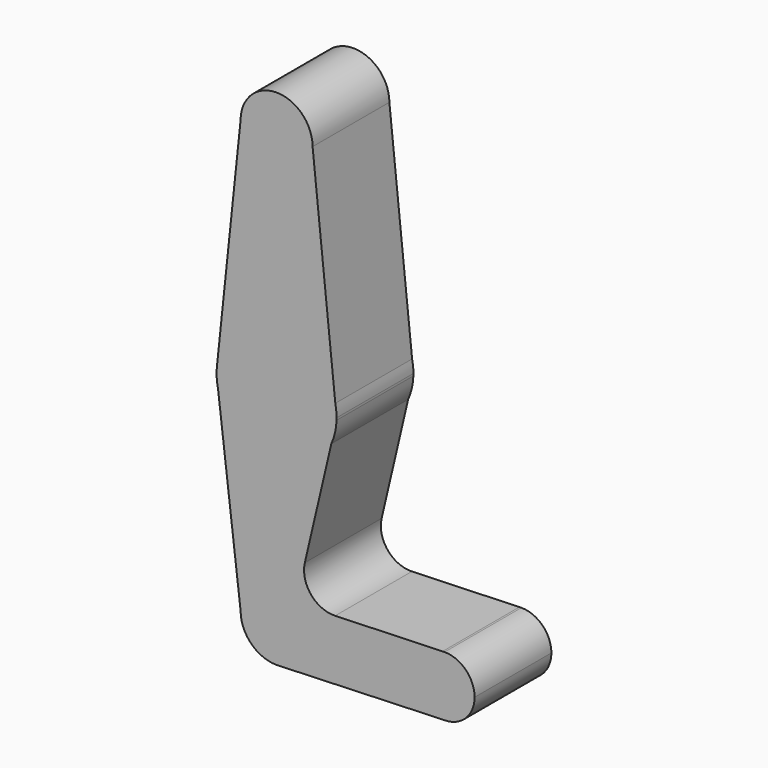
from build123d import *

# Parameters (mm, degrees)
F1_DEPTH = 25.4


with BuildPart() as f1:
    # F0 (on Front) → F1 (new body)
    with BuildSketch(Plane.XZ):
        with BuildLine():
            ThreePointArc((-14.7900995298, 23.9714898933), (-20.6470897327, 17.1486192201), (-29.2709236007, 14.6019767489))
            Line((-29.2709236007, 14.6019767489), (-29.2709236007, -13.2101878722))
            ThreePointArc((-29.2709236007, -13.2101878722), (-22.5357315099, -15.9999957814), (-19.7459236007, -22.7351878722))
            Line((-19.7459236007, -22.7351878722), (7.2415763993, -22.7351878722))
            ThreePointArc((7.2415763993, -22.7351878722), (9.3813621396, -17.3138950731), (14.6470354515, -14.8155389734))
            Line((14.6470354515, -14.8155389734), (-13.7879362186, -15.7695925283))
            ThreePointArc((-13.7879362186, -15.7695925283), (-20.1992020029, -12.868535521), (-21.7962346911, -6.0150730888))
            Line((-21.7962346911, -6.0150730888), (-14.7900995298, 23.9714898933))
        make_face()
        with BuildLine():
            ThreePointArc((14.6470354515, -14.8155389734), (9.3813621396, -17.3138950731), (7.2415763993, -22.7351878722))
            ThreePointArc((7.2415763993, -22.7351878722), (9.5664163236, -28.3478479478), (15.1790763993, -30.6726878722))
            ThreePointArc((15.1790763993, -30.6726878722), (20.791736475, -28.3478479478), (23.1165763993, -22.7351878722))
            ThreePointArc((23.1165763993, -22.7351878722), (20.791736475, -17.1225277965), (15.1790763993, -14.7976878722))
            Line((15.1790763993, -14.7976878722), (14.6470354515, -14.8155389734))
        make_face()
        with BuildLine():
            ThreePointArc((18.3540763993, -22.7351878722), (15.1790763993, -25.9101878722), (12.0040763993, -22.7351878722))
            ThreePointArc((12.0040763993, -22.7351878722), (15.1790763993, -19.5601878722), (18.3540763993, -22.7351878722))
        make_face(mode=Mode.SUBTRACT)
        with BuildLine():
            ThreePointArc((-29.2709236007, -13.2101878722), (-36.0061156915, -15.9999957814), (-38.7959236007, -22.7351878722))
            ThreePointArc((-38.7959236007, -22.7351878722), (-36.0061156915, -29.470379963), (-29.2709236007, -32.2601878722))
            Line((-29.2709236007, -32.2601878722), (-28.5914331548, -32.2359203562))
            ThreePointArc((-28.5914331548, -32.2359203562), (-22.2996334942, -29.2256993506), (-19.7459236007, -22.7351878722))
            Line((-19.7459236007, -22.7351878722), (-26.0959236007, -22.7351878722))
            ThreePointArc((-26.0959236007, -22.7351878722), (-31.515987631, -24.9802519024), (-29.2709236007, -19.5601878722))
            Line((-29.2709236007, -19.5601878722), (-29.2709236007, -13.2101878722))
        make_face()
        with BuildLine():
            ThreePointArc((-29.2709236007, 46.3519767489), (-39.8917173845, 42.2758904448), (-45.0584926384, 32.1407943115))
            ThreePointArc((-45.0584926384, 32.1407943115), (-45.1322391325, 31.135987068), (-45.1420989412, 30.1285254428))
            Line((-45.1420989412, 30.1285254428), (-44.7736165017, 27.0590624994))
            ThreePointArc((-44.7736165017, 27.0590624994), (-39.2146712918, 18.1021027352), (-29.2709236007, 14.6019767489))
            Line((-29.2709236007, 14.6019767489), (-29.2709236007, 27.3019767489))
            ThreePointArc((-29.2709236007, 27.3019767489), (-32.4459236007, 30.4769767489), (-29.2709236007, 33.6519767489))
            Line((-29.2709236007, 33.6519767489), (-29.2709236007, 46.3519767489))
        make_face()
        with BuildLine():
            ThreePointArc((-19.7459236007, 91.5648121278), (-22.5357315099, 84.829620037), (-29.2709236007, 82.0398121278))
            Line((-29.2709236007, 82.0398121278), (-29.2709236007, 70.1771767489))
            ThreePointArc((-29.2709236007, 70.1771767489), (-28.1483915856, 69.712208764), (-27.6834236007, 68.5896767489))
            ThreePointArc((-27.6834236007, 68.5896767489), (-28.1483915856, 67.4671447338), (-29.2709236007, 67.0021767489))
            Line((-29.2709236007, 67.0021767489), (-29.2709236007, 46.3519767489))
            ThreePointArc((-29.2709236007, 46.3519767489), (-19.2663667242, 42.8027410946), (-13.7353254347, 33.7420670425))
            Line((-13.7353254347, 33.7420670425), (-19.7459236007, 91.5648121278))
        make_face()
        with BuildLine():
            ThreePointArc((-29.2709236007, 14.6019767489), (-39.2146712918, 18.1021027352), (-44.7736165017, 27.0590624994))
            Line((-44.7736165017, 27.0590624994), (-38.7959236007, -22.7351878722))
            ThreePointArc((-38.7959236007, -22.7351878722), (-36.0061156915, -15.9999957814), (-29.2709236007, -13.2101878722))
            Line((-29.2709236007, -13.2101878722), (-29.2709236007, 14.6019767489))
        make_face()
        with BuildLine():
            ThreePointArc((-19.7459236007, -22.7351878722), (-22.5357315099, -15.9999957814), (-29.2709236007, -13.2101878722))
            Line((-29.2709236007, -13.2101878722), (-29.2709236007, -19.5601878722))
            ThreePointArc((-29.2709236007, -19.5601878722), (-27.0258595704, -20.4901238419), (-26.0959236007, -22.7351878722))
            Line((-26.0959236007, -22.7351878722), (-19.7459236007, -22.7351878722))
        make_face()
        with BuildLine():
            Line((7.2415763993, -22.7351878722), (-19.7459236007, -22.7351878722))
            ThreePointArc((-19.7459236007, -22.7351878722), (-22.2996334942, -29.2256993506), (-28.5914331548, -32.2359203562))
            Line((-28.5914331548, -32.2359203562), (15.1790763993, -30.6726878722))
            ThreePointArc((15.1790763993, -30.6726878722), (9.5664163236, -28.3478479478), (7.2415763993, -22.7351878722))
        make_face()
        with BuildLine():
            ThreePointArc((18.3540763993, -22.7351878722), (15.1790763993, -19.5601878722), (12.0040763993, -22.7351878722))
            ThreePointArc((12.0040763993, -22.7351878722), (15.1790763993, -25.9101878722), (18.3540763993, -22.7351878722))
        make_face()
        with BuildLine():
            Line((-29.2709236007, 27.3019767489), (-29.2709236007, 33.6519767489))
            ThreePointArc((-29.2709236007, 33.6519767489), (-32.4459236007, 30.4769767489), (-29.2709236007, 27.3019767489))
        make_face()
        with BuildLine():
            ThreePointArc((-26.0959236007, 30.4769767489), (-27.0258595704, 32.7220407792), (-29.2709236007, 33.6519767489))
            Line((-29.2709236007, 33.6519767489), (-29.2709236007, 27.3019767489))
            ThreePointArc((-29.2709236007, 27.3019767489), (-27.0258595704, 28.2319127186), (-26.0959236007, 30.4769767489))
        make_face()
        with BuildLine():
            ThreePointArc((-26.0959236007, -22.7351878722), (-27.0258595704, -20.4901238419), (-29.2709236007, -19.5601878722))
            Line((-29.2709236007, -19.5601878722), (-29.2709236007, -22.7351878722))
            Line((-29.2709236007, -22.7351878722), (-26.0959236007, -22.7351878722))
        make_face()
        with BuildLine():
            Line((-29.2709236007, -22.7351878722), (-29.2709236007, -19.5601878722))
            ThreePointArc((-29.2709236007, -19.5601878722), (-31.515987631, -24.9802519024), (-26.0959236007, -22.7351878722))
            Line((-26.0959236007, -22.7351878722), (-29.2709236007, -22.7351878722))
        make_face()
        with BuildLine():
            Line((-13.3959236007, 30.4769767489), (-13.7353254347, 33.7420670425))
            ThreePointArc((-13.7353254347, 33.7420670425), (-19.2663667242, 42.8027410946), (-29.2709236007, 46.3519767489))
            Line((-29.2709236007, 46.3519767489), (-29.2709236007, 33.6519767489))
            ThreePointArc((-29.2709236007, 33.6519767489), (-27.0258595704, 32.7220407792), (-26.0959236007, 30.4769767489))
            ThreePointArc((-26.0959236007, 30.4769767489), (-27.0258595704, 28.2319127186), (-29.2709236007, 27.3019767489))
            Line((-29.2709236007, 27.3019767489), (-29.2709236007, 14.6019767489))
            ThreePointArc((-29.2709236007, 14.6019767489), (-20.6470897327, 17.1486192201), (-14.7900995298, 23.9714898933))
            Line((-14.7900995298, 23.9714898933), (-13.4066842293, 29.8925675039))
            ThreePointArc((-13.4066842293, 29.8925675039), (-13.3986139858, 30.1847225972), (-13.3959236007, 30.4769767489))
        make_face()
        with BuildLine():
            ThreePointArc((-13.3959236007, 30.4769767489), (-13.4810020384, 32.1183182909), (-13.7353254347, 33.7420670425))
            Line((-13.7353254347, 33.7420670425), (-13.3959236007, 30.4769767489))
        make_face()
        with BuildLine():
            Line((-44.7736165017, 27.0590624994), (-45.1420989412, 30.1285254428))
            ThreePointArc((-45.1420989412, 30.1285254428), (-45.0327541669, 28.5848028135), (-44.7736165017, 27.0590624994))
        make_face()
        with BuildLine():
            ThreePointArc((-14.7900995298, 23.9714898933), (-13.8122526084, 26.8651744076), (-13.4066842293, 29.8925675039))
            Line((-13.4066842293, 29.8925675039), (-14.7900995298, 23.9714898933))
        make_face()
        with BuildLine():
            Line((-28.5914331548, -32.2359203562), (-29.2709236007, -32.2601878722))
            ThreePointArc((-29.2709236007, -32.2601878722), (-28.9309617726, -32.2541190598), (-28.5914331548, -32.2359203562))
        make_face()
        with BuildLine():
            ThreePointArc((15.1790763993, -14.7976878722), (14.9129062319, -14.8021519028), (14.6470354515, -14.8155389734))
            Line((14.6470354515, -14.8155389734), (15.1790763993, -14.7976878722))
        make_face()
        with BuildLine():
            Line((-29.2709236007, 67.0021767489), (-29.2709236007, 70.1771767489))
            ThreePointArc((-29.2709236007, 70.1771767489), (-30.8584236007, 68.5896767489), (-29.2709236007, 67.0021767489))
        make_face()
        with BuildLine():
            ThreePointArc((-27.6834236007, 68.5896767489), (-28.1483915856, 69.712208764), (-29.2709236007, 70.1771767489))
            Line((-29.2709236007, 70.1771767489), (-29.2709236007, 67.0021767489))
            ThreePointArc((-29.2709236007, 67.0021767489), (-28.1483915856, 67.4671447338), (-27.6834236007, 68.5896767489))
        make_face()
        with BuildLine():
            Line((-29.2709236007, 70.1771767489), (-29.2709236007, 82.0398121278))
            ThreePointArc((-29.2709236007, 82.0398121278), (-36.0061156915, 84.829620037), (-38.7959236007, 91.5648121278))
            Line((-38.7959236007, 91.5648121278), (-45.0584926384, 32.1407943115))
            ThreePointArc((-45.0584926384, 32.1407943115), (-39.8917173845, 42.2758904448), (-29.2709236007, 46.3519767489))
            Line((-29.2709236007, 46.3519767489), (-29.2709236007, 67.0021767489))
            ThreePointArc((-29.2709236007, 67.0021767489), (-30.8584236007, 68.5896767489), (-29.2709236007, 70.1771767489))
        make_face()
        with BuildLine():
            ThreePointArc((-38.7959236007, 91.5648121278), (-36.0061156915, 84.829620037), (-29.2709236007, 82.0398121278))
            ThreePointArc((-29.2709236007, 82.0398121278), (-22.5357315099, 84.829620037), (-19.7459236007, 91.5648121278))
            ThreePointArc((-19.7459236007, 91.5648121278), (-29.2709236007, 101.0898121278), (-38.7959236007, 91.5648121278))
        make_face()
        with BuildLine():
            ThreePointArc((-26.0959236007, 91.5648121278), (-27.0258595704, 89.3197480976), (-29.2709236007, 88.3898121278))
            ThreePointArc((-29.2709236007, 88.3898121278), (-31.515987631, 93.8098761581), (-26.0959236007, 91.5648121278))
        make_face(mode=Mode.SUBTRACT)
        with BuildLine():
            ThreePointArc((-26.0959236007, 91.5648121278), (-31.515987631, 93.8098761581), (-29.2709236007, 88.3898121278))
            ThreePointArc((-29.2709236007, 88.3898121278), (-27.0258595704, 89.3197480976), (-26.0959236007, 91.5648121278))
        make_face()
    extrude(amount=F1_DEPTH)


solid = f1.part
